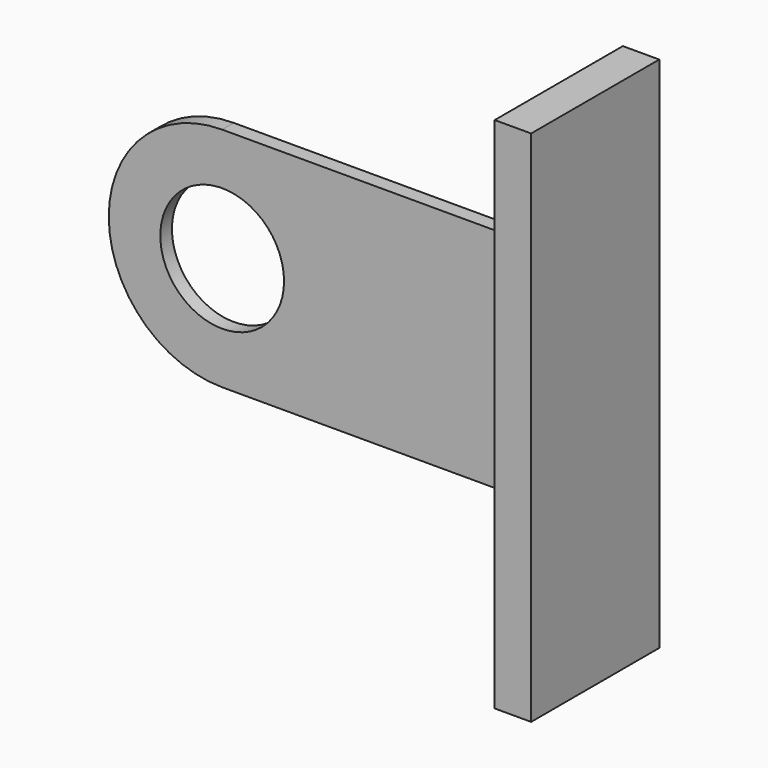
from build123d import *

# Parameters (mm, degrees)
F0_R     = 8.5
F1_DEPTH = 2
F2_W     = 22
F2_H     = 71.162369
F3_DEPTH = 5


with BuildPart() as f1:
    # F0 (on Front) → F1 (new body)
    with BuildSketch(Plane.XZ):
        with BuildLine():
            Line((26.236077, 16.621207), (-19.205651, 16.621207))
            ThreePointArc((-19.205651, 16.621207), (-34.786835, 1.040022), (-19.205651, -14.541162))
            Line((-19.205651, -14.541162), (26.236077, -14.541162))
            Line((26.236077, -14.541162), (26.236077, 16.621207))
        make_face()
        with Locations((-19.205651, 1.040022)):
            Circle(F0_R, mode=Mode.SUBTRACT)
    extrude(amount=F1_DEPTH)

    # F2 (on face) → F3 (join)
    with BuildSketch(Plane.YZ.offset(26.236077)):
        with Locations((-1, 1.040022)):
            Rectangle(F2_W, F2_H)
    extrude(amount=F3_DEPTH)


solid = f1.part
